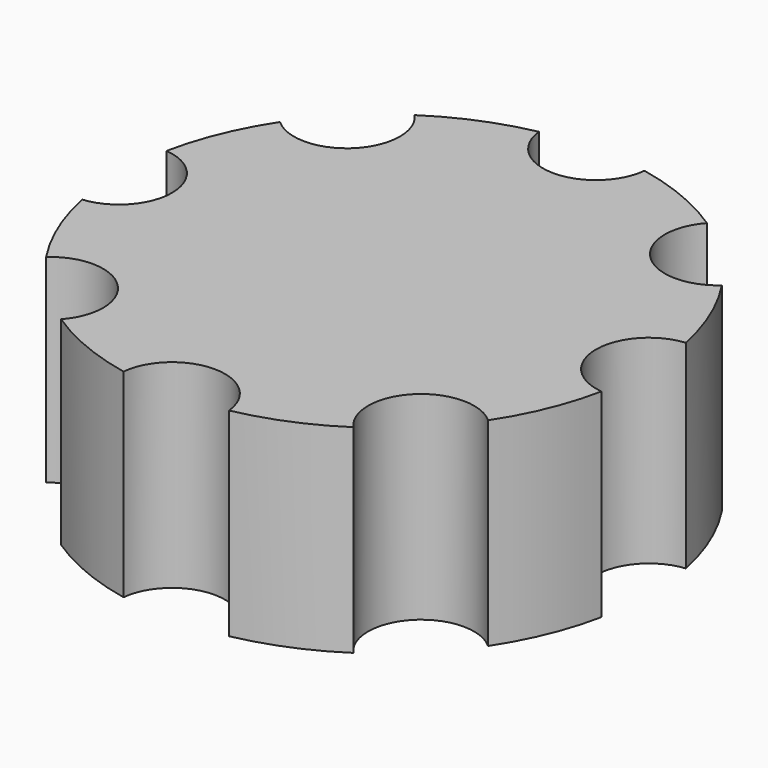
from build123d import *

# Parameters (mm, degrees)
CYLINDER002_R     = 4
CYLINDER002_DEPTH = 15
CYLINDER003_R     = 4
CYLINDER003_DEPTH = 15
CYLINDER004_R     = 4
CYLINDER004_DEPTH = 15
CYLINDER005_R     = 4
CYLINDER005_DEPTH = 15
CYLINDER007_R     = 4
CYLINDER007_DEPTH = 15
CYLINDER006_R     = 4
CYLINDER006_DEPTH = 15
CYLINDER008_R     = 4
CYLINDER008_DEPTH = 15
CYLINDER001_R     = 4
CYLINDER001_DEPTH = 15
CYLINDER_R        = 20
CYLINDER_DEPTH    = 15


with BuildPart() as cylinder002:
    # Cylinder002 → Cylinder002 (new body)
    with BuildSketch(Plane(origin=(0, 20, 0), x_dir=(1, 0, 0), z_dir=(0, 0, 1))):
        Circle(CYLINDER002_R)
    extrude(amount=CYLINDER002_DEPTH)


with BuildPart() as cylinder003:
    # Cylinder003 → Cylinder003 (new body)
    with BuildSketch(Plane(origin=(-20, 0, 0), x_dir=(1, 0, 0), z_dir=(0, 0, 1))):
        Circle(CYLINDER003_R)
    extrude(amount=CYLINDER003_DEPTH)


with BuildPart() as cylinder004:
    # Cylinder004 → Cylinder004 (new body)
    with BuildSketch(Plane(origin=(0, -20, 0), x_dir=(1, 0, 0), z_dir=(0, 0, 1))):
        Circle(CYLINDER004_R)
    extrude(amount=CYLINDER004_DEPTH)


with BuildPart() as cylinder005:
    # Cylinder005 → Cylinder005 (new body)
    with BuildSketch(Plane(origin=(14, -14, 0), x_dir=(1, 0, 0), z_dir=(0, 0, 1))):
        Circle(CYLINDER005_R)
    extrude(amount=CYLINDER005_DEPTH)


with BuildPart() as cylinder007:
    # Cylinder007 → Cylinder007 (new body)
    with BuildSketch(Plane(origin=(-14, -14, 0), x_dir=(1, 0, 0), z_dir=(0, 0, 1))):
        Circle(CYLINDER007_R)
    extrude(amount=CYLINDER007_DEPTH)


with BuildPart() as cylinder006:
    # Cylinder006 → Cylinder006 (new body)
    with BuildSketch(Plane(origin=(-14, 14, 0), x_dir=(1, 0, 0), z_dir=(0, 0, 1))):
        Circle(CYLINDER006_R)
    extrude(amount=CYLINDER006_DEPTH)


with BuildPart() as cylinder008:
    # Cylinder008 → Cylinder008 (new body)
    with BuildSketch(Plane(origin=(14, 14, 0), x_dir=(1, 0, 0), z_dir=(0, 0, 1))):
        Circle(CYLINDER008_R)
    extrude(amount=CYLINDER008_DEPTH)


with BuildPart() as cylinder001:
    # Cylinder001 → Cylinder001 (new body)
    with BuildSketch(Plane(origin=(20, 0, 0), x_dir=(1, 0, 0), z_dir=(0, 0, 1))):
        Circle(CYLINDER001_R)
    extrude(amount=CYLINDER001_DEPTH)


with BuildPart() as cut007:
    # Cylinder → Cylinder (new body)
    with BuildSketch(Plane.XY):
        Circle(CYLINDER_R)
    extrude(amount=CYLINDER_DEPTH)

    # Cut: cut Cylinder001
    add(cylinder001.part, mode=Mode.SUBTRACT)

    # Cut001: cut Cylinder008
    add(cylinder008.part, mode=Mode.SUBTRACT)

    # Cut002: cut Cylinder006
    add(cylinder006.part, mode=Mode.SUBTRACT)

    # Cut003: cut Cylinder007
    add(cylinder007.part, mode=Mode.SUBTRACT)

    # Cut004: cut Cylinder005
    add(cylinder005.part, mode=Mode.SUBTRACT)

    # Cut005: cut Cylinder004
    add(cylinder004.part, mode=Mode.SUBTRACT)

    # Cut006: cut Cylinder003
    add(cylinder003.part, mode=Mode.SUBTRACT)

    # Cut007: cut Cylinder002
    add(cylinder002.part, mode=Mode.SUBTRACT)


solid = cut007.part
